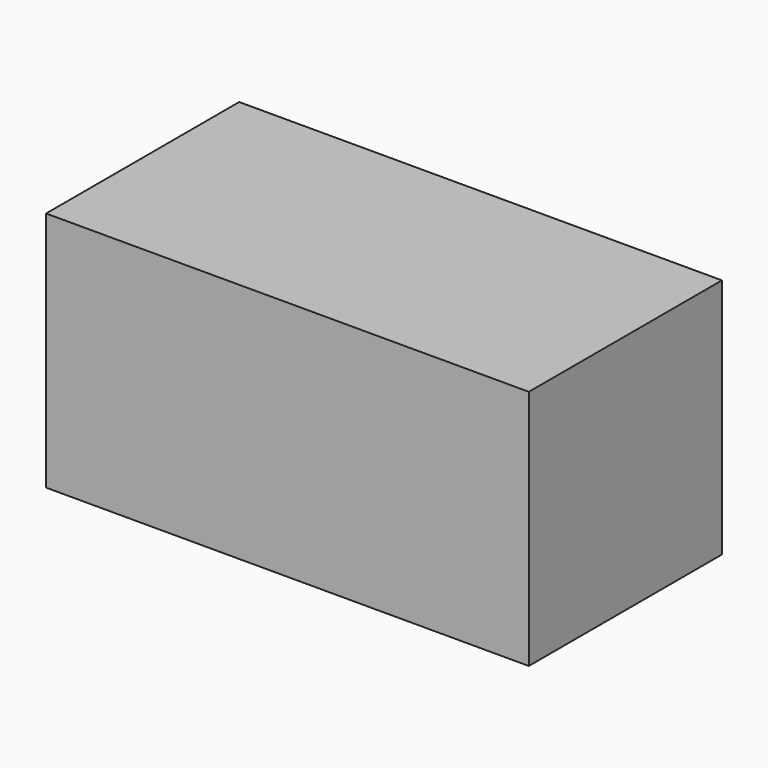
from build123d import *

# Parameters (mm, degrees)
F1_W      = 5280
F1_H      = 5280
F2_DEPTH  = 140
F3_W      = 5280
F3_H      = 5280
F3_W_2    = 5000
F3_H_2    = 5000
F4_DEPTH  = 5000
F5_W      = 5280
F5_H      = 5280
F5_W_2    = 5000
F5_H_2    = 5000
F5_R      = 650
F6_DEPTH  = 280
F7_W      = 5280
F7_H      = 5280
F7_W_2    = 5000
F7_H_2    = 5000
F8_DEPTH  = 5000
F9_W      = 5280
F9_H      = 5280
F9_W_2    = 5000
F9_H_2    = 5000
F10_DEPTH = 140


with BuildPart() as f2:
    # F1 (on offset) → F2 (new body)
    with BuildSketch(Plane.YZ.offset(5280)):
        Rectangle(F1_W, F1_H)
    extrude(amount=-F2_DEPTH)

    # F3 (on face) → F4 (join)
    with BuildSketch(Plane(origin=(5140, 0, 0), x_dir=(0, -1, 0), z_dir=(-1, 0, 0))):
        Rectangle(F3_W, F3_H)
        Rectangle(F3_W_2, F3_H_2, mode=Mode.SUBTRACT)
    extrude(amount=F4_DEPTH)

    # F5 (on face) → F6 (join)
    with BuildSketch(Plane(origin=(140, 0, 0), x_dir=(0, -1, 0), z_dir=(-1, 0, 0))):
        Rectangle(F5_W, F5_H)
        Rectangle(F5_W_2, F5_H_2, mode=Mode.SUBTRACT)
        Rectangle(F5_W_2, F5_H_2)
        Circle(F5_R, mode=Mode.SUBTRACT)
    extrude(amount=F6_DEPTH)

    # F7 (on face) → F8 (join)
    with BuildSketch(Plane(origin=(-140, 0, 0), x_dir=(0, -1, 0), z_dir=(-1, 0, 0))):
        Rectangle(F7_W, F7_H)
        Rectangle(F7_W_2, F7_H_2, mode=Mode.SUBTRACT)
    extrude(amount=F8_DEPTH)

    # F9 (on face) → F10 (join)
    with BuildSketch(Plane(origin=(-5140, 0, 0), x_dir=(0, -1, 0), z_dir=(-1, 0, 0))):
        Rectangle(F9_W, F9_H)
        Rectangle(F9_W_2, F9_H_2, mode=Mode.SUBTRACT)
        Rectangle(F9_W_2, F9_H_2)
    extrude(amount=F10_DEPTH)


solid = f2.part
